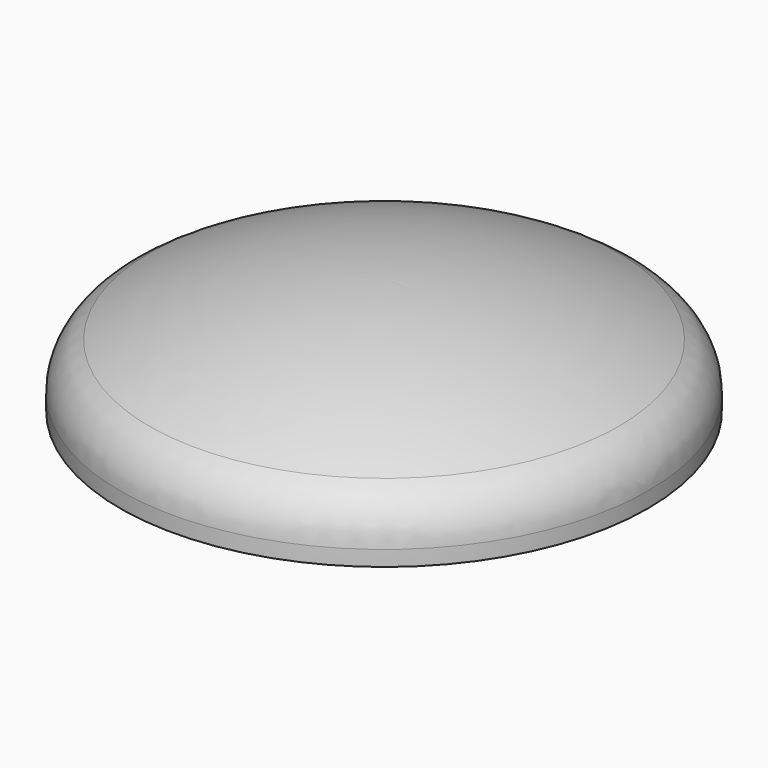
from build123d import *

# Parameters (mm, degrees)
F2_R = 60.8
F3_R = 60.8


with BuildPart() as f1:
    # F0 (on Front) → F1 (revolve)
    with BuildSketch(Plane.XZ):
        with BuildLine():
            ThreePointArc((304, 526.543446), (157.361979, 587.282902), (0, 608))
            Line((0, 608), (0, 602))
            ThreePointArc((0, 602), (155.251624, 581.636427), (300, 521.923366))
            Line((300, 521.923366), (300, 472.4))
            Line((300, 472.4), (304, 472.4))
            Line((304, 472.4), (304, 519.603695))
            Line((304, 519.603695), (304, 526.543446))
        make_face()
    revolve(axis=Axis((0, 0, 339.339674), (0, 0, 1)))

    # F2
    f2_edges = [f1.edges().sort_by_distance(p)[0] for p in [
        (-300, 0, 521.923366),
    ]]
    fillet(f2_edges, radius=F2_R)

    # F3
    f3_edges = [f1.edges().sort_by_distance(p)[0] for p in [
        (-304, 0, 526.543446),
    ]]
    fillet(f3_edges, radius=F3_R)


solid = f1.part
